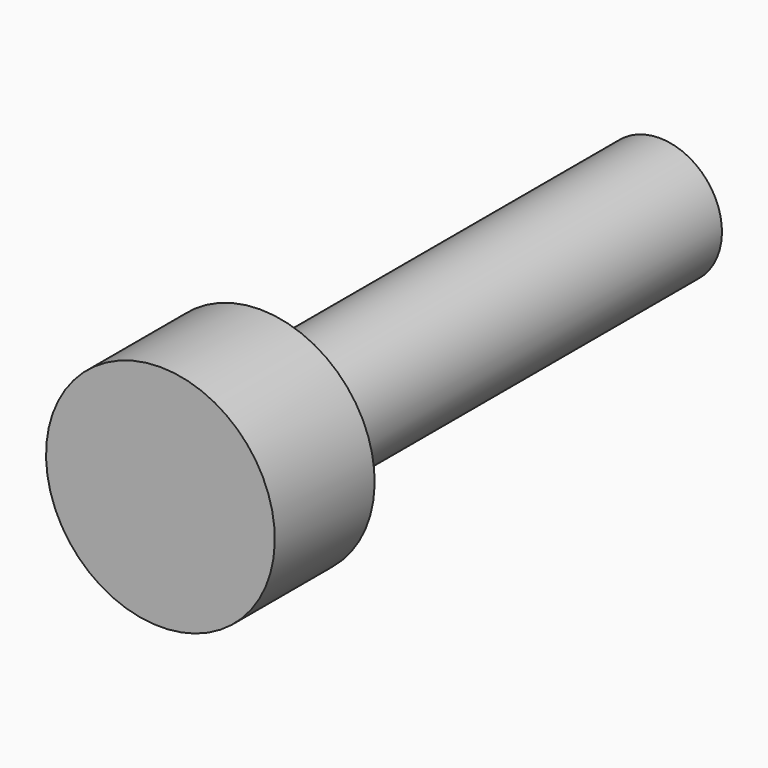
from build123d import *


with BuildPart() as part:
    # Sketch → Revolution (revolve)
    with BuildSketch(Plane.YZ):
        Polygon((-3, 0), (-3, 2.75), (0, 2.75), (0, 1.5), (12, 1.5), (12, 0), align=None)
    revolve(axis=Axis((0, 0, 0), (0, 1, 0)))


solid = part.part
